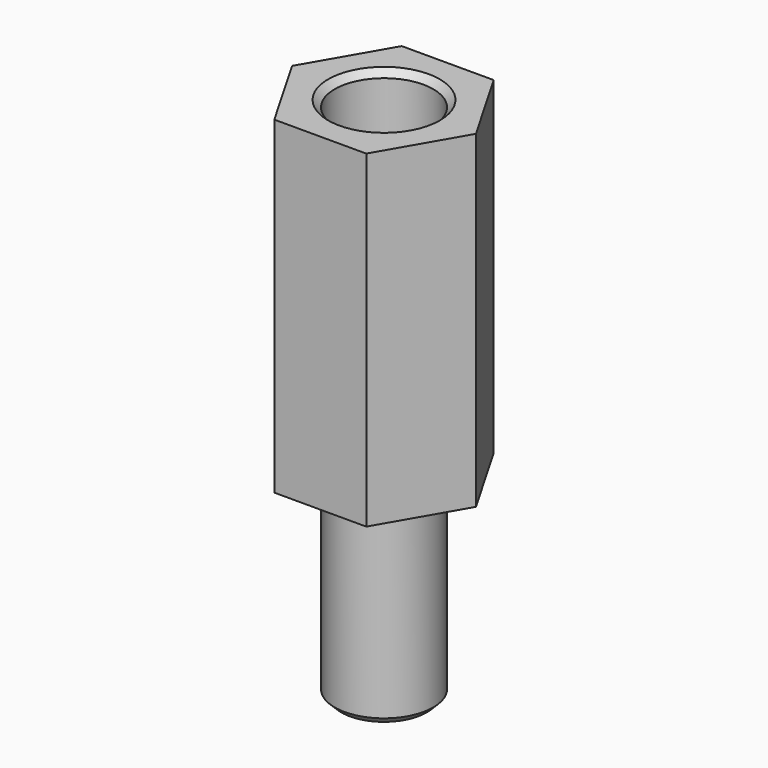
from build123d import *

# Parameters (mm, degrees)
PAD_DEPTH    = 10
SKETCH001_R  = 1.5
PAD001_DEPTH = 6
SKETCH002_R  = 1.5
POCKET_DEPTH = 6
CHAMFER_SIZE = 0.2


with BuildPart() as part:
    # Sketch → Pad (new body)
    with BuildSketch(Plane.XY):
        Polygon((2.8, 0), (1.4, 2.424871), (-1.4, 2.424871), (-2.8, 0), (-1.4, -2.424871), (1.4, -2.424871), align=None)
    extrude(amount=PAD_DEPTH)

    # Sketch001 (on Face7 of Pad) → Pad001 (join)
    with BuildSketch(Plane(origin=(0, 0, 0), x_dir=(1, 0, 0), z_dir=(0, 0, -1))):
        Circle(SKETCH001_R)
    extrude(amount=PAD001_DEPTH)

    # Sketch002 (on Face5 of Pad001) → Pocket (cut)
    with BuildSketch(Plane.XY.offset(10)):
        Circle(SKETCH002_R)
    extrude(amount=-POCKET_DEPTH, mode=Mode.SUBTRACT)

    # Chamfer
    chamfer_edges = [part.edges().sort_by_distance(p)[0] for p in [
        (-1.5, 0, 10),
        (-1.5, 0, -6),
    ]]
    chamfer(chamfer_edges, length=CHAMFER_SIZE)


solid = part.part
